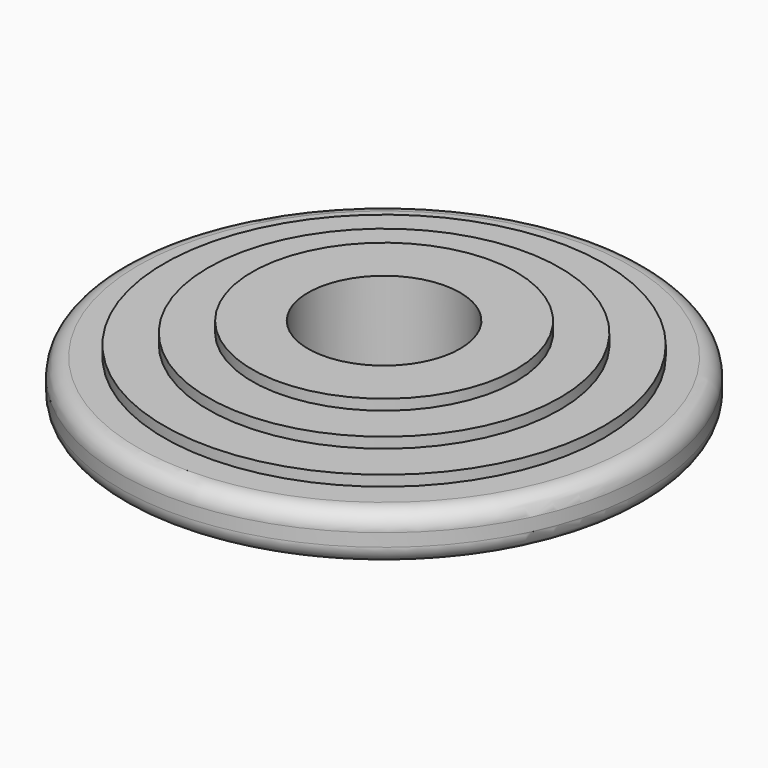
from build123d import *

# Parameters (mm, degrees)
F0_R      = 38.1
F1_DEPTH  = 6.9342
F2_R      = 2.54
F3_R      = 31.75
F4_DEPTH  = 1.524
F6_R      = 19.05
F7_DEPTH  = 1.524
F5_R      = 25.4
F8_DEPTH  = 1.524
F9_R      = 19.05
F10_DEPTH = 1.524
F11_R     = 31.75
F12_DEPTH = 1.524
F13_R     = 25.4
F14_DEPTH = 1.524
F15_R     = 19.05
F16_DEPTH = 1.524
F17_R     = 10.9728
F18_DEPTH = 25.4


with BuildPart() as f1:
    # F0 (on Top) → F1 (new body)
    with BuildSketch(Plane.XY):
        Circle(F0_R)
    extrude(amount=F1_DEPTH)

    # F2
    f2_edges = [f1.edges().sort_by_distance(p)[0] for p in [
        (-38.1, 0, 6.9342),
        (-38.1, 0, 0),
    ]]
    fillet(f2_edges, radius=F2_R)

    # F3 (on face) → F4 (join)
    with BuildSketch(Plane(origin=(0, 0, 0), x_dir=(1, 0, 0), z_dir=(0, 0, -1))):
        Circle(F3_R)
    extrude(amount=F4_DEPTH)

    # F5 (on face) → F8 (join)
    with BuildSketch(Plane(origin=(0, 0, -1.524), x_dir=(1, 0, 0), z_dir=(0, 0, -1))):
        Circle(F5_R)
    extrude(amount=F8_DEPTH)



with BuildPart() as f7:
    # F6 (on face) → F7 (new body)
    with BuildSketch(Plane.XY.offset(8.4582)):
        Circle(F6_R)
    extrude(amount=F7_DEPTH)

    # F9 (on face) → F10 (join)
    with BuildSketch(Plane.XY.offset(9.9822)):
        Circle(F9_R)
    extrude(amount=F10_DEPTH)


with BuildPart() as f1_1:
    add(f1.part)

    add(f7.part)  # F12 merges F7
    # F11 (on face) → F12 (join)
    with BuildSketch(Plane.XY.offset(6.9342)):
        Circle(F11_R)
    extrude(amount=F12_DEPTH)

    # F13 (on face) → F14 (join)
    with BuildSketch(Plane.XY.offset(8.4582)):
        Circle(F13_R)
    extrude(amount=F14_DEPTH)

    # F15 (on face) → F16 (join)
    with BuildSketch(Plane(origin=(0, 0, -3.048), x_dir=(1, 0, 0), z_dir=(0, 0, -1))):
        Circle(F15_R)
    extrude(amount=F16_DEPTH)

    # F17 (on face) → F18 (cut)
    with BuildSketch(Plane(origin=(0, 0, -4.572), x_dir=(1, 0, 0), z_dir=(0, 0, -1))):
        Circle(F17_R)
    extrude(amount=-F18_DEPTH, mode=Mode.SUBTRACT)


solid = f1_1.part
